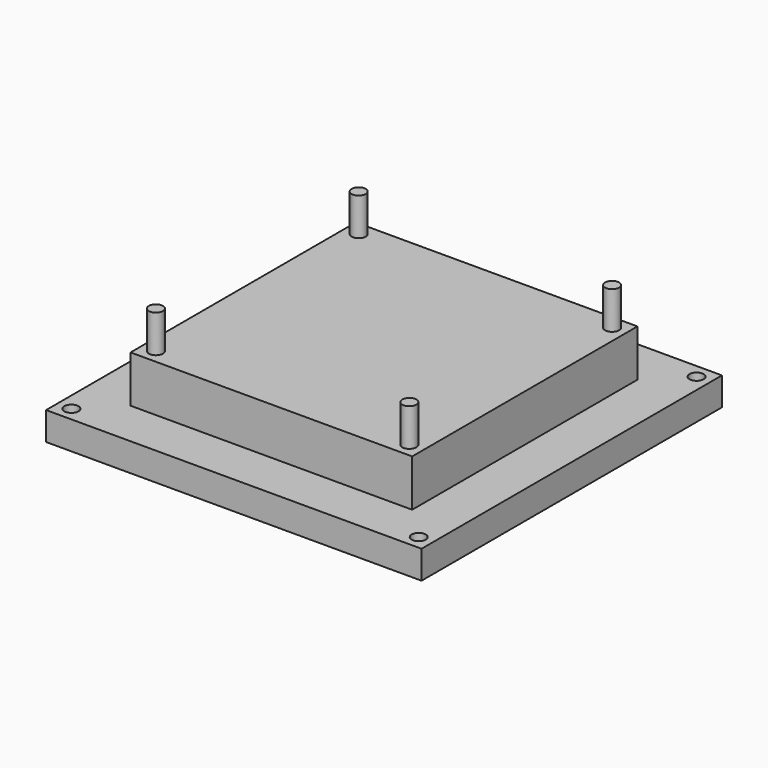
from build123d import *

# Parameters (mm, degrees)
F0_W     = 80
F0_H     = 80
F1_DEPTH = 6
F2_W     = 60
F2_H     = 60
F3_DEPTH = 10
F4_R     = 1.5
F5_DEPTH = 8
F6_R     = 1.5
F7_DEPTH = 6


with BuildPart() as f1:
    # F0 (on Top) → F1 (new body)
    with BuildSketch(Plane.XY):
        Rectangle(F0_W, F0_H)
    extrude(amount=F1_DEPTH)

    # F2 (on face) → F3 (join)
    with BuildSketch(Plane.XY.offset(6)):
        Rectangle(F2_W, F2_H)
    extrude(amount=F3_DEPTH)

    # F4 (on face) → F5 (join)
    with BuildSketch(Plane.XY.offset(16)):
        with Locations((-27, -27)):
            Circle(F4_R)
        with Locations((27, -27)):
            Circle(F4_R)
        with Locations((27, 27)):
            Circle(F4_R)
        with Locations((-27, 27)):
            Circle(F4_R)
    extrude(amount=F5_DEPTH)

    # F6 (on face) → F7 (cut)
    with BuildSketch(Plane.XY.offset(6)):
        with Locations((-37, 37)):
            Circle(F6_R)
        with Locations((37, 37)):
            Circle(F6_R)
        with Locations((-37, -37)):
            Circle(F6_R)
        with Locations((37, -37)):
            Circle(F6_R)
    extrude(amount=-F7_DEPTH, mode=Mode.SUBTRACT)


solid = f1.part
